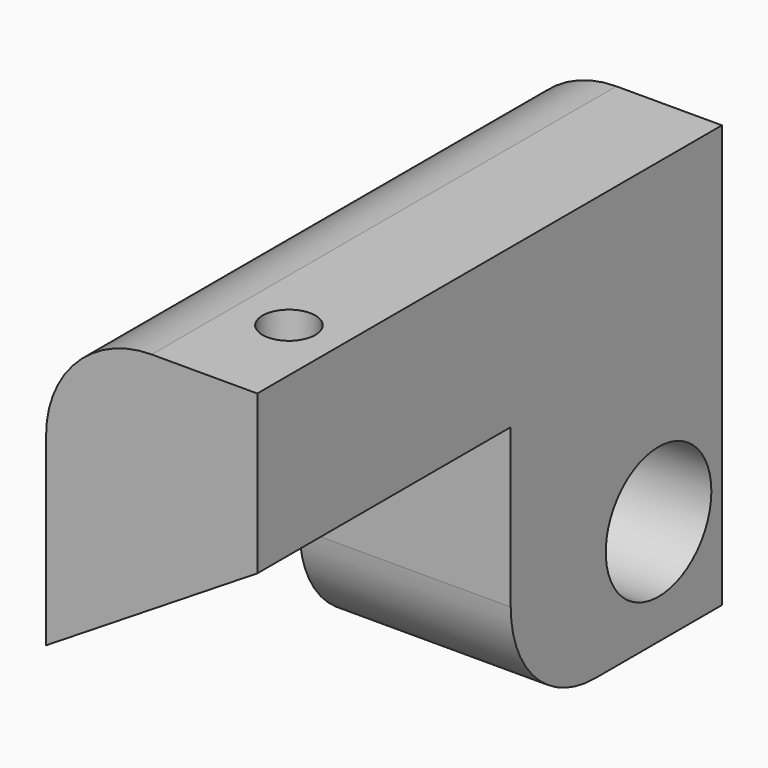
from build123d import *

# Parameters (mm, degrees)
F0_W           = 50.8
F0_H           = 25.4
F1_DEPTH       = 63.5
F2_DEPTH       = 139.7
F3_R           = 25.4
F5_D           = 12.7
F7_D           = 19.05
F7_CBORE_D     = 31.75
F7_CBORE_DEPTH = 25.4


with BuildPart() as f1:
    # F0 (on Front) → F1 (new body)
    with BuildSketch(Plane.XZ):
        Polygon((0, 31.75), (0, 25.4), (50.8, 25.4), (50.8, 63.5), align=None)
        with Locations((25.4, 12.7)):
            Rectangle(F0_W, F0_H)
        with BuildLine():
            Line((0, 76.2), (0, 31.75))
            Line((0, 31.75), (50.8, 63.5))
            Line((50.8, 63.5), (50.8, 101.6))
            Line((50.8, 101.6), (25.4, 101.6))
            ThreePointArc((25.4, 101.6), (7.4394877579, 94.1605122421), (0, 76.2))
        make_face()
    extrude(amount=F1_DEPTH)

    # F0 (on Front) → F2 (join)
    with BuildSketch(Plane.XZ):
        with BuildLine():
            Line((0, 76.2), (0, 31.75))
            Line((0, 31.75), (50.8, 63.5))
            Line((50.8, 63.5), (50.8, 101.6))
            Line((50.8, 101.6), (25.4, 101.6))
            ThreePointArc((25.4, 101.6), (7.4394877579, 94.1605122421), (0, 76.2))
        make_face()
    extrude(amount=F2_DEPTH)

    # F3
    f3_edges = [f1.edges().sort_by_distance(p)[0] for p in [
        (25.4, -63.5, 0),
    ]]
    fillet(f3_edges, radius=F3_R)

    # F5 (through all)
    with Locations(Plane(origin=(0, 0, 0), x_dir=(1, 0, 0), z_dir=(0, 0, -1))):
        with Locations((38.1, 114.3)):
            Hole(F5_D / 2)

    # F7 (through all)
    with Locations(Plane.YZ.offset(50.8)):
        with Locations((-19.05, 25.4)):
            CounterBoreHole(F7_D / 2, F7_CBORE_D / 2, F7_CBORE_DEPTH)


solid = f1.part
